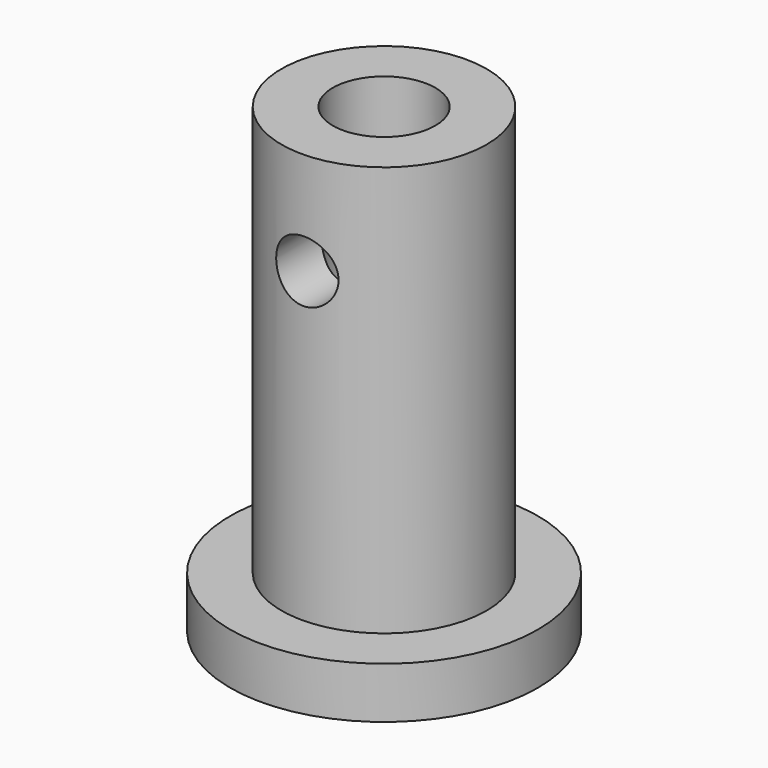
from build123d import *

# Parameters (mm, degrees)
F0_R     = 10
F0_R_2   = 5
F1_DEPTH = 40
F3_D     = 6
F3_DEPTH = 12
F3_START = 10.6041218
F3_TIP   = 1.8025818571
F4_R     = 15
F4_R_2   = 10
F5_DEPTH = 5


with BuildPart() as f1:
    # F0 (on Top) → F1 (new body)
    with BuildSketch(Plane.XY):
        with Locations((96.2916985154, 20.0932901353)):
            Circle(F0_R)
        with Locations((96.2916985154, 20.0932901353)):
            Circle(F0_R_2, mode=Mode.SUBTRACT)
    extrude(amount=F1_DEPTH)

    # F3
    # its depths count from where the whole tool has entered the part; down to there all is cleared
    with Locations(Plane.XZ.offset(-F3_START)):
        with Locations((96.4469611645, 30)):
            Hole(F3_D / 2, depth=F3_DEPTH)
            with Locations((0, 0, -(F3_DEPTH + F3_TIP / 2))):  # 118° drill point
                Cone(0, F3_D / 2, F3_TIP, mode=Mode.SUBTRACT)


with BuildPart() as f5:
    # F4 (on face) → F5 (new body)
    with BuildSketch(Plane(origin=(0, 0, 0), x_dir=(1, 0, 0), z_dir=(0, 0, -1))):
        with Locations((96.2916985154, -20.0932901353)):
            Circle(F4_R)
        with Locations((96.2916985154, -20.0932901353)):
            Circle(F4_R_2, mode=Mode.SUBTRACT)
    extrude(amount=F5_DEPTH)


solid = Compound([f1.part, f5.part])
